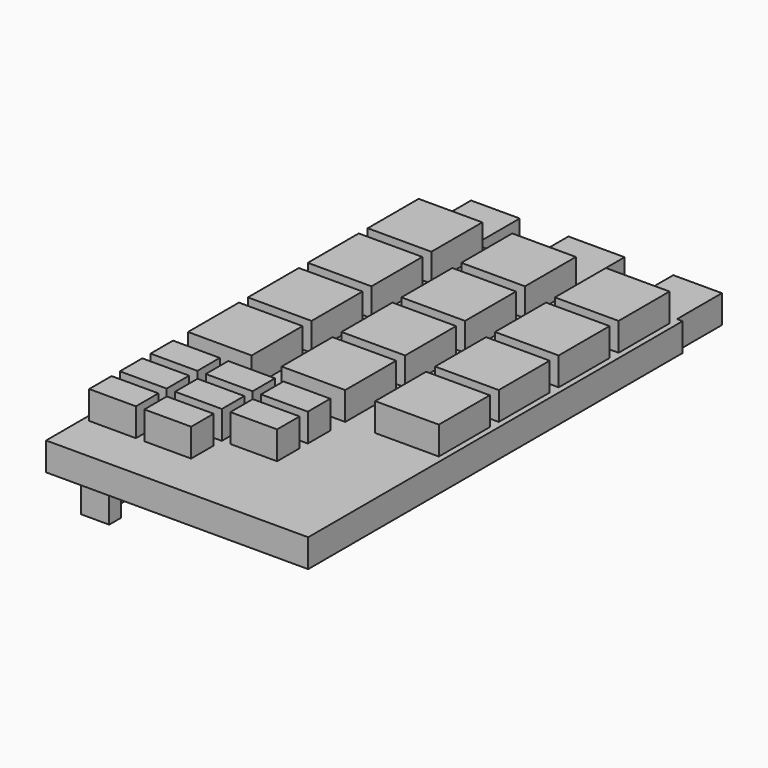
from build123d import *

# Parameters (mm, degrees)
F1_DEPTH = 1.5
F3_W     = 3.4
F3_H     = 3.4
F3_W_2   = 2.5
F3_H_2   = 1.5
F4_DEPTH = 1.5
F5_W     = 3
F5_H     = 3
F5_W_2   = 2.042156
F5_H_2   = 2.253413
F5_W_3   = 1.8
F5_H_3   = 1
F5_W_4   = 2
F5_W_5   = 0.8
F5_H_4   = 1.5
F5_W_6   = 1.5
F5_H_5   = 0.8
F6_DEPTH = 1.5


with BuildPart() as f1:
    # F0 (on Top) → F1 (new body)
    with BuildSketch(Plane.XY):
        Polygon((-7, -14), (7, -14), (7, 11), (6.7, 11), (6.7, 14), (4.1, 14), (4.1, 11), (1.5, 11), (1.5, 14), (-1.5, 14), (-1.5, 11), (-4.1, 11), (-4.1, 14), (-6.7, 14), (-6.7, 11), (-7, 11), align=None)
    extrude(amount=F1_DEPTH)

    # F3 (on face) → F4 (join)
    with BuildSketch(Plane.XY.offset(1.5)):
        with Locations((-5, 8.8)):
            Rectangle(F3_W, F3_H)
        with Locations((-5, 4.8)):
            Rectangle(F3_W, F3_H)
        with Locations((-5, 0.8)):
            Rectangle(F3_W, F3_H)
        with Locations((-5, -3.2)):
            Rectangle(F3_W, F3_H)
        with Locations((0, 8.8)):
            Rectangle(F3_W, F3_H)
        with Locations((0, 4.8)):
            Rectangle(F3_W, F3_H)
        with Locations((0, 0.8)):
            Rectangle(F3_W, F3_H)
        with Locations((0, -3.2)):
            Rectangle(F3_W, F3_H)
        with Locations((5, 8.8)):
            Rectangle(F3_W, F3_H)
        with Locations((5, 4.8)):
            Rectangle(F3_W, F3_H)
        with Locations((5, 0.8)):
            Rectangle(F3_W, F3_H)
        with Locations((5, -3.2)):
            Rectangle(F3_W, F3_H)
        with Locations((-5.45, -6.65)):
            Rectangle(F3_W_2, F3_H_2)
        with Locations((-5.45, -8.7)):
            Rectangle(F3_W_2, F3_H_2)
        with Locations((-2.5, -6.65)):
            Rectangle(F3_W_2, F3_H_2)
        with Locations((-2.5, -8.7)):
            Rectangle(F3_W_2, F3_H_2)
        with Locations((0.45, -6.65)):
            Rectangle(F3_W_2, F3_H_2)
        with Locations((0.45, -8.7)):
            Rectangle(F3_W_2, F3_H_2)
        with Locations((-5.45, -10.75)):
            Rectangle(F3_W_2, F3_H_2)
        with Locations((-2.5, -10.75)):
            Rectangle(F3_W_2, F3_H_2)
    extrude(amount=F4_DEPTH)

    # F5 (on face) → F6 (join)
    with BuildSketch(Plane(origin=(0, 0, 0), x_dir=(1, 0, 0), z_dir=(0, 0, -1))):
        with Locations((2.570299, -3.256886)):
            Rectangle(F5_W, F5_H)
        with Locations((3.873054, 5.862395)):
            Rectangle(F5_W_2, F5_H_2)
        with Locations((-5.5, 10.5)):
            Rectangle(F5_W_3, F5_H)
        with Locations((-5.5, 6.813054)):
            Rectangle(F5_W_3, F5_H_3)
        with Locations((-5.6, 4.277964)):
            Rectangle(F5_W_4, F5_H_3)
        with Locations((-3.732216, 10.157964)):
            Rectangle(F5_W_5, F5_H_4)
        with Locations((-4.542036, 13.397247)):
            Rectangle(F5_W_6, F5_H_5)
    extrude(amount=F6_DEPTH)


solid = f1.part
